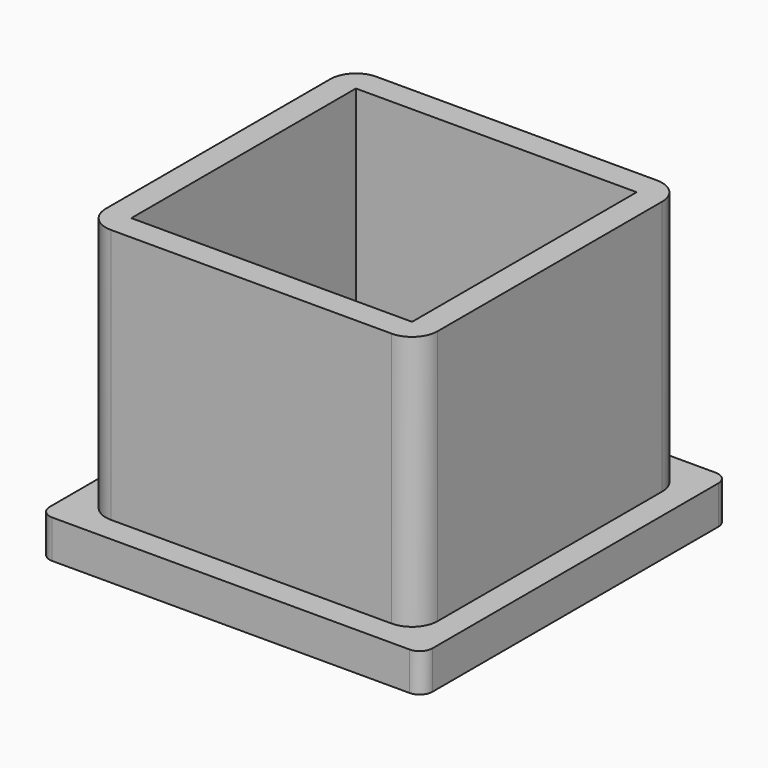
from build123d import *

# Parameters (mm, degrees)
F0_W     = 30
F0_H     = 30
F1_DEPTH = 3
F2_R     = 1
F3_W     = 26
F3_H     = 26
F4_DEPTH = 20
F5_R     = 2
F6_W     = 22
F6_H     = 22
F7_DEPTH = 20


with BuildPart() as f1:
    # F0 (on Top) → F1 (new body)
    with BuildSketch(Plane.XY):
        Rectangle(F0_W, F0_H)
    extrude(amount=F1_DEPTH)

    # F2
    f2_edges = [f1.edges().sort_by_distance(p)[0] for p in [
        (-15, 15, 1.5),
        (-15, -15, 1.5),
        (15, -15, 1.5),
        (15, 15, 1.5),
    ]]
    fillet(f2_edges, radius=F2_R)

    # F3 (on face) → F4 (join)
    with BuildSketch(Plane.XY.offset(3)):
        Rectangle(F3_W, F3_H)
        Rectangle(F3_W, F3_H)
    extrude(amount=F4_DEPTH)

    # F5
    f5_edges = [f1.edges().sort_by_distance(p)[0] for p in [
        (-13, -13, 13),
        (13, -13, 13),
        (13, 13, 13),
        (-13, 13, 13),
    ]]
    fillet(f5_edges, radius=F5_R)

    # F6 (on face) → F7 (cut, through all)
    with BuildSketch(Plane.XY.offset(23)):
        Rectangle(F6_W, F6_H)
    extrude(amount=-F7_DEPTH, mode=Mode.SUBTRACT)


solid = f1.part
